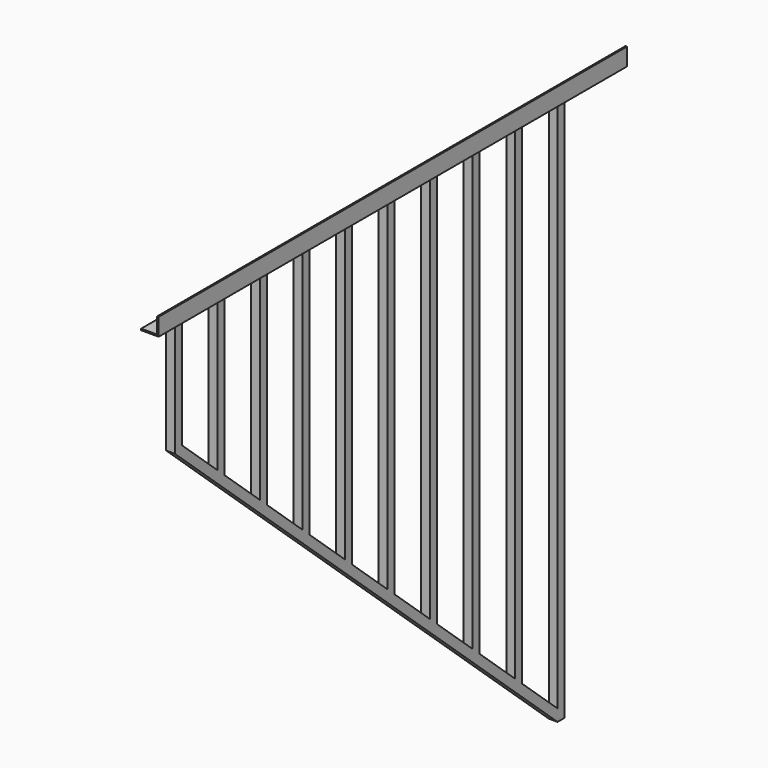
from build123d import *

# Parameters (mm, degrees)
F1_DEPTH      = 762
F1_DEPTH_BACK = 508
F4_DEPTH      = 19.05


with BuildPart() as f1:
    # F0 (on Front) → F1 (new body, two sides)
    with BuildSketch(Plane.XZ) as f1_sk:
        Polygon((3.175, 693.138936), (3.175, 731.238936), (0, 731.238936), (0, 696.313936), (-34.925, 696.313936), (-34.925, 693.138936), align=None)
    extrude(amount=F1_DEPTH)
    extrude(f1_sk.sketch, amount=-F1_DEPTH_BACK)

    # F3 (on Right) → F4 (join)
    with BuildSketch(Plane.YZ):
        Polygon((-695.203112, 693.138936), (-714.253112, 693.138936), (-714.253112, 449.204153), (323.971888, -485.198347), (343.021888, -485.198347), (343.021888, 693.138936), (323.971888, 693.138936), (323.971888, -459.569193), (227.663555, -372.891693), (227.663555, 693.138936), (208.613555, 693.138936), (208.613555, -355.746693), (112.305222, -269.069193), (112.305222, 693.138936), (93.255222, 693.138936), (93.255222, -251.924193), (-3.053112, -165.246693), (-3.053112, 693.138936), (-22.103112, 693.138936), (-22.103112, -148.101693), (-118.411445, -61.424193), (-118.411445, 693.138936), (-137.461445, 693.138936), (-137.461445, -44.279193), (-233.769778, 42.398307), (-233.769778, 693.138936), (-252.819778, 693.138936), (-252.819778, 59.543307), (-349.128112, 146.220807), (-349.128112, 693.138936), (-368.178112, 693.138936), (-368.178112, 163.365807), (-464.486445, 250.043307), (-464.486445, 693.138936), (-483.536445, 693.138936), (-483.536445, 267.188307), (-579.844778, 353.865807), (-579.844778, 693.138936), (-598.894778, 693.138936), (-598.894778, 371.010807), (-695.203112, 457.688307), align=None)
    extrude(amount=-F4_DEPTH)


solid = f1.part
